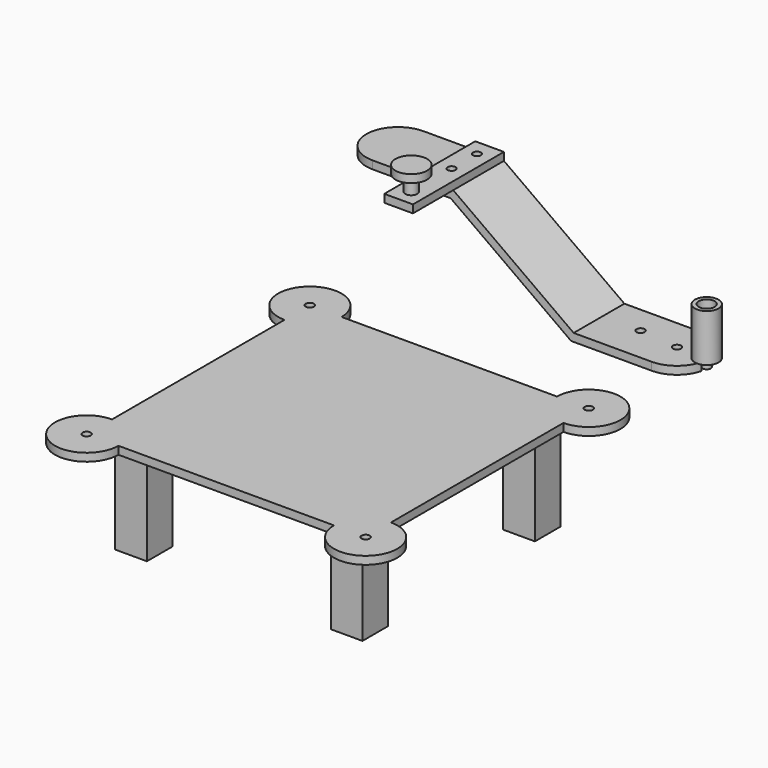
from build123d import *

# Parameters (mm, degrees)
F0_W      = 82.8061997521
F0_H      = 12.7
F2_DEPTH  = 3.175
F3_D      = 3.2639
F7_W      = 25.4
F7_H      = 3.175
F9_W      = 12.7
F9_H      = 3.175
F11_W     = 12.7
F11_H     = 3.175
F14_D     = 3.2639
F16_D     = 3.2639
F17_W     = 6.35
F17_H     = 6.35
F18_DEPTH = 3.176
F19_R     = 1.5875
F20_DEPTH = 3.175
F21_R     = 4.7625
F22_DEPTH = 19.05
F23_R     = 3.175
F24_DEPTH = 17.4625
F26_R     = 1.5875
F27_DEPTH = 25.4
F28_W     = 11.4867726283
F28_H     = 45.5676
F28_R     = 1.5875
F29_DEPTH = 3.175
F30_R     = 2.38125
F31_DEPTH = 6.35
F32_R     = 6.35
F33_DEPTH = 3.175
F34_W     = 12.7
F34_H     = 12.7
F35_DEPTH = 38.1


with BuildPart() as f2:
    # F0 (on Top) → F2 (new body)
    with BuildSketch(Plane.XY):
        with BuildLine():
            Line((-43.18, 43.18), (-43.18, 55.88))
            ThreePointArc((-43.18, 55.88), (-64.8602561211, 64.8602561211), (-55.88, 43.18))
            Line((-55.88, 43.18), (-55.88, -43.18))
            ThreePointArc((-55.88, -43.18), (-64.8602561211, -64.8602561211), (-43.18, -55.88))
            Line((-43.18, -55.88), (43.18, -55.88))
            ThreePointArc((43.18, -55.88), (64.8602561211, -64.8602561211), (55.88, -43.18))
            Line((55.88, -43.18), (55.88, 43.18))
            ThreePointArc((55.88, 43.18), (64.8602561211, 64.8602561211), (43.18, 55.88))
            Line((43.18, 55.88), (39.6261997521, 55.88))
            Line((39.6261997521, 55.88), (39.6261997521, 43.18))
            Line((39.6261997521, 43.18), (-43.18, 43.18))
        make_face()
        with Locations((-1.776900124, 49.53)):
            Rectangle(F0_W, F0_H)
    extrude(amount=F2_DEPTH)

    # F3 (through all)
    with Locations(Plane(origin=(0, 0, 0), x_dir=(1, 0, 0), z_dir=(0, 0, -1))):
        with Locations((-55.88, -55.88), (55.88, -55.88), (-55.88, 55.88), (55.88, 55.88)):
            Hole(F3_D / 2)

    # F34 (on face) → F35 (join)
    with BuildSketch(Plane.XY):
        with Locations((-43.18, -43.18)):
            Rectangle(F34_W, F34_H)
        with Locations((43.18, -43.18)):
            Rectangle(F34_W, F34_H)
        with Locations((43.18, 43.18)):
            Rectangle(F34_W, F34_H)
        with Locations((-43.18, 43.18)):
            Rectangle(F34_W, F34_H)
    extrude(amount=-F35_DEPTH)


with BuildPart() as f8:
    # F8: sweep along a path in F5
    with BuildLine(Plane.XZ.offset(-107.8693939435)) as f8_path:
        Line((49.630001771, 0), (17.880001771, 0))
        Line((17.880001771, 0), (-30.379998229, 34.6588875541))
        Line((-30.379998229, 34.6588875541), (-62.129998229, 34.6588875541))
    # F7 (on line) → F8 (sweep)
    with BuildSketch(Plane.YZ.offset(49.630001771)):
        with Locations((107.8693939435, 0)):
            Rectangle(F7_W, F7_H)
    sweep(path=f8_path.line, transition=Transition.RIGHT)

    # F9 (on face) → F10 (revolve)
    with BuildSketch(Plane.YZ.offset(49.630001771)):
        with Locations((114.2193939435, 0)):
            Rectangle(F9_W, F9_H)
    revolve(axis=Axis((49.630001771, 107.8693939435, 0), (0, 0, -1)))

    # F11 (on face) → F12 (revolve)
    with BuildSketch(Plane(origin=(-62.129998229, 0, 0), x_dir=(0, -1, 0), z_dir=(-1, 0, 0))):
        with Locations((-101.5193939435, 34.6588875541)):
            Rectangle(F11_W, F11_H)
    revolve(axis=Axis((-62.129998229, 107.8693939435, 34.6588875541), (0, 0, 1)))

    # F14 (through all)
    with Locations(Plane.XY.offset(1.5875)):
        with Locations((49.630001771, 107.8693939435)):
            Hole(F14_D / 2)

    # F16 (through all)
    with Locations(Plane.XY.offset(1.5875)):
        with Locations((33.755001771, 109.4568939435)):
            Hole(F16_D / 2)

    # F17 (on face) → F18 (cut, through all)
    with BuildSketch(Plane.XY.offset(1.5875)):
        with Locations((62.330001771, 107.8693939435)):
            Rectangle(F17_W, F17_H)
    extrude(amount=-F18_DEPTH, mode=Mode.SUBTRACT)

    # F26 (on face) → F27 (cut)
    with BuildSketch(Plane.XY.offset(36.2463875541)):
        with Locations((-35.612398229, 114.2193939435)):
            Circle(F26_R)
        with Locations((-35.612398229, 101.5193939435)):
            Circle(F26_R)
    extrude(amount=-F27_DEPTH, mode=Mode.SUBTRACT)


with BuildPart() as f20:
    # F19 (on face) → F20 (new body)
    with BuildSketch(Plane.XY.offset(1.5875)):
        with Locations((61.536251771, 107.8693939435)):
            Circle(F19_R)
    extrude(amount=-F20_DEPTH)

    # F21 (on face) → F22 (join)
    with BuildSketch(Plane.XY.offset(1.5875)):
        with Locations((61.536251771, 107.8693939435)):
            Circle(F21_R)
    extrude(amount=F22_DEPTH)

    # F23 (on face) → F24 (cut)
    with BuildSketch(Plane.XY.offset(20.6375)):
        with Locations((61.536251771, 107.8693939435)):
            Circle(F23_R)
    extrude(amount=-F24_DEPTH, mode=Mode.SUBTRACT)


with BuildPart() as f29:
    # F28 (on face) → F29 (new body)
    with BuildSketch(Plane.XY.offset(36.2463875541)):
        with Locations((-35.612398229, 97.7855939435)):
            Rectangle(F28_W, F28_H)
        with Locations((-35.612398229, 114.2193939435)):
            Circle(F28_R, mode=Mode.SUBTRACT)
        with Locations((-35.612398229, 101.5193939435)):
            Circle(F28_R, mode=Mode.SUBTRACT)
    extrude(amount=F29_DEPTH)

    # F30 (on face) → F31 (join)
    with BuildSketch(Plane.XY.offset(39.4213875541)):
        with Locations((-35.612398229, 81.3517939435)):
            Circle(F30_R)
    extrude(amount=F31_DEPTH)

    # F32 (on face) → F33 (join)
    with BuildSketch(Plane.XY.offset(45.7713875541)):
        with Locations((-35.612398229, 81.3517939435)):
            Circle(F32_R)
    extrude(amount=F33_DEPTH)


solid = Compound([f2.part, f8.part, f20.part, f29.part])
